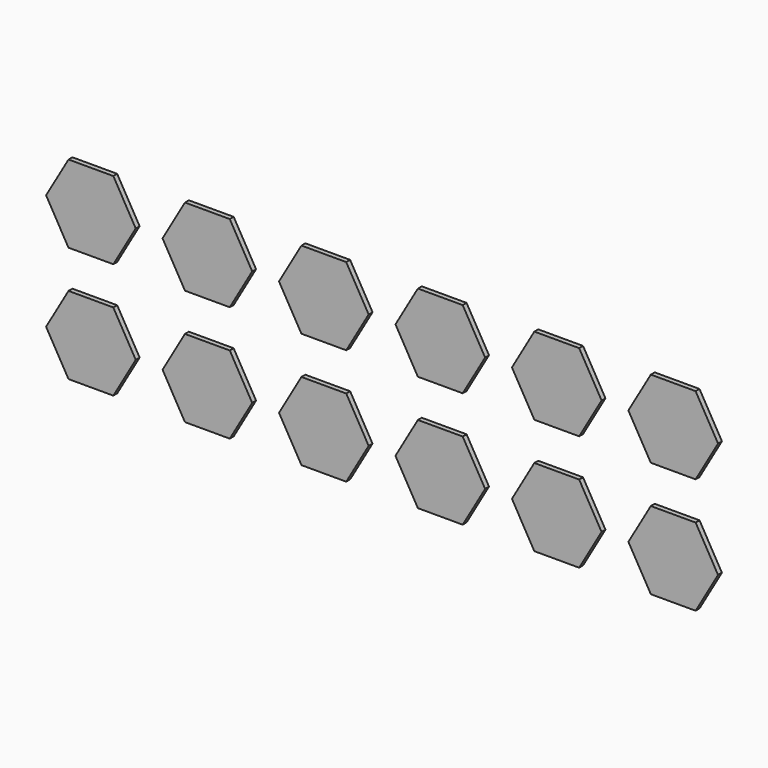
from build123d import *

# Parameters (mm, degrees)
F1_DEPTH = 1.5875


with BuildPart() as f1:
    # F0 (on Front) → F1 (new body)
    with BuildSketch(Plane.XZ):
        Polygon((7.332348, 12.7), (-7.332348, 12.7), (-14.664697, 0), (-7.332348, -12.7), (7.332348, -12.7), (14.664697, 0), align=None)
        Polygon((30.767652, -12.7), (45.432348, -12.7), (52.764697, 0), (45.432348, 12.7), (30.767652, 12.7), (23.435303, 0), align=None)
        Polygon((68.867652, -12.7), (83.532348, -12.7), (90.864697, 0), (83.532348, 12.7), (68.867652, 12.7), (61.535303, 0), align=None)
        Polygon((106.967652, -12.7), (121.632348, -12.7), (128.964697, 0), (121.632348, 12.7), (106.967652, 12.7), (99.635303, 0), align=None)
        Polygon((145.067652, -12.7), (159.732348, -12.7), (167.064697, 0), (159.732348, 12.7), (145.067652, 12.7), (137.735303, 0), align=None)
        Polygon((183.167652, -12.7), (197.832348, -12.7), (205.164697, 0), (197.832348, 12.7), (183.167652, 12.7), (175.835303, 0), align=None)
        Polygon((183.167652, 50.546), (175.835303, 37.846), (183.167652, 25.146), (197.832348, 25.146), (205.164697, 37.846), (197.832348, 50.546), align=None)
        Polygon((167.064697, 37.846), (159.732348, 50.546), (145.067652, 50.546), (137.735303, 37.846), (145.067652, 25.146), (159.732348, 25.146), align=None)
        Polygon((106.967652, 50.546), (99.635303, 37.846), (106.967652, 25.146), (121.632348, 25.146), (128.964697, 37.846), (121.632348, 50.546), align=None)
        Polygon((90.864697, 37.846), (83.532348, 50.546), (68.867652, 50.546), (61.535303, 37.846), (68.867652, 25.146), (83.532348, 25.146), align=None)
        Polygon((30.767652, 25.146), (45.432348, 25.146), (52.764697, 37.846), (45.432348, 50.546), (30.767652, 50.546), (23.435303, 37.846), align=None)
        Polygon((-14.664697, 37.846), (-7.332348, 25.146), (7.332348, 25.146), (14.664697, 37.846), (7.332348, 50.546), (-7.332348, 50.546), align=None)
    extrude(amount=F1_DEPTH)


solid = f1.part
